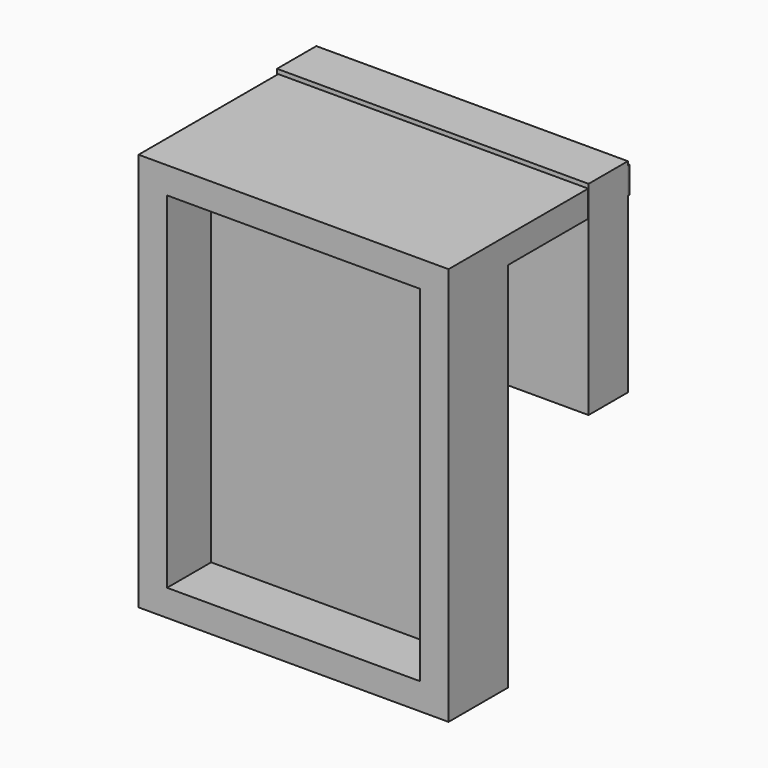
from build123d import *

# Parameters (mm, degrees)
F1_DEPTH = 16.764
F2_W     = 70
F2_H     = 90
F3_DEPTH = 4.318
F4_DEPTH = 34.29
F5_W     = 70.352048
F5_H     = 11.088093
F6_DEPTH = 45.974


with BuildPart() as f1:
    # F0 (on Front) → F1 (new body)
    with BuildSketch(Plane.XZ):
        Polygon((35, 39.003629), (35, 45), (-35, 45), (-35, 39.003629), (-28.564712, 39.003629), (28.564712, 39.003629), align=None)
        Polygon((35, -45), (35, 39.003629), (28.564712, 39.003629), (28.564712, -39.003629), (-28.564712, -39.003629), (-28.564712, 39.003629), (-35, 39.003629), (-35, -45), align=None)
    extrude(amount=F1_DEPTH)

    # F2 (on Front) → F3 (join)
    with BuildSketch(Plane.XZ):
        Rectangle(F2_W, F2_H)
    extrude(amount=F3_DEPTH)

    # F0 (on Front) → F4 (join)
    with BuildSketch(Plane.XZ):
        Polygon((35, 39.003629), (35, 45), (-35, 45), (-35, 39.003629), (-28.564712, 39.003629), (28.564712, 39.003629), align=None)
    extrude(amount=-F4_DEPTH)

    # F5 (on Top) → F6 (join)
    with BuildSketch(Plane.XY):
        with Locations((-0.095587, 28.198169)):
            Rectangle(F5_W, F5_H)
    extrude(amount=F6_DEPTH)


solid = f1.part
